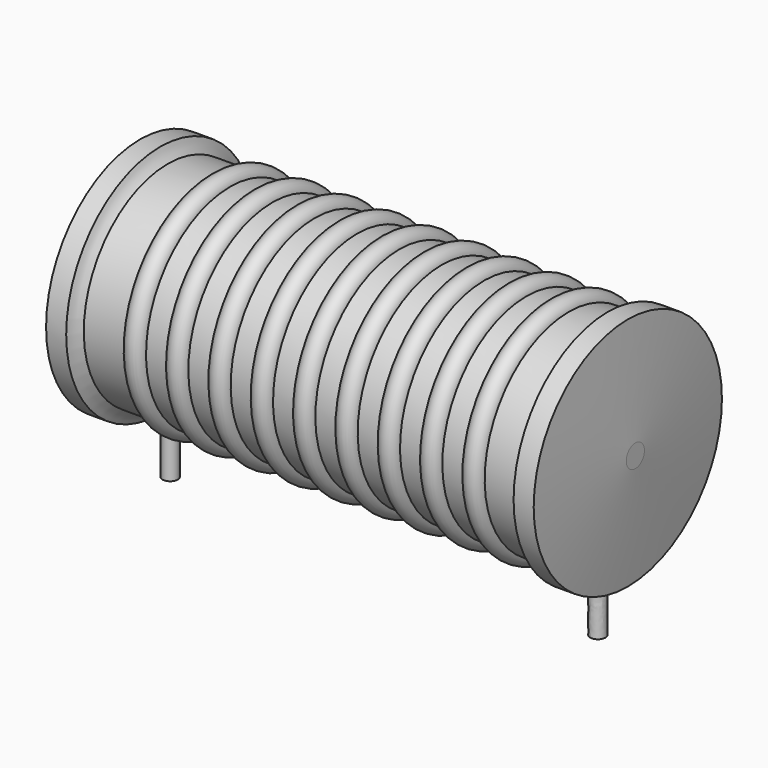
from build123d import *

# Parameters (mm, degrees)
SKETCH_R = 0.45


with BuildPart() as sweep_body:
    # Sweep: sweep along a path in Sketch001
    with BuildLine(Plane.XZ) as sweep_path:
        Line((0, -3), (0, 6.185))
        ThreePointArc((0, 6.185), (0.263601, 6.821393), (0.899993, 7.085))
        Line((0.899993, 7.085), (24.5, 7.085))
        ThreePointArc((24.5, 7.085), (25.136396, 6.821396), (25.4, 6.185))
        Line((25.4, 6.185), (25.4, -3))
    # Sketch → Sweep (sweep)
    with BuildSketch(Plane.XY.offset(-2)):
        Circle(SKETCH_R)
    sweep(path=sweep_path.line)


with BuildPart() as revolution:
    # Sketch002 → Revolution (revolve)
    with BuildSketch(Plane.XZ):
        with BuildLine():
            Line((-1.77725, 14.07), (-0.58325, 14.07))
            ThreePointArc((-0.58325, 14.07), (-0.399464, 13.672822), (-0.1355, 13.32375))
            Line((-0.1355, 13.32375), (25.5355, 13.32375))
            ThreePointArc((25.5355, 13.32375), (25.799464, 13.672822), (25.98325, 14.07))
            Line((25.98325, 14.07), (27.17725, 14.07))
            ThreePointArc((27.625, 7.76), (27.421663, 10.916457), (27.17725, 14.07))
            Line((27.625, 7.085), (27.625, 7.76))
            Line((-2.225, 7.085), (27.625, 7.085))
            Line((-2.225, 7.085), (-2.225, 7.76))
            ThreePointArc((-1.77725, 14.07), (-2.021663, 10.916457), (-2.225, 7.76))
        make_face()
    revolve(axis=Axis((-2.225, 0, 7.085), (1, 0, 0)))


with BuildPart() as obj1:
    # Sketch003 → Revolution001 (revolve)
    with BuildSketch(Plane.XZ):
        with BuildLine():
            ThreePointArc((3.572184, 13.20435), (2.943763, 13.832771), (2.315342, 13.20435))
            Line((1.0585, 13.20435), (2.315342, 13.20435))
            Line((1.0585, 13.20435), (1.0585, 11.80735))
            Line((1.0585, 11.80735), (24.9385, 11.80735))
            Line((24.9385, 11.80735), (24.9385, 13.20435))
            Line((23.681658, 13.20435), (24.9385, 13.20435))
            ThreePointArc((23.681658, 13.20435), (23.053237, 13.832771), (22.424816, 13.20435))
            Line((21.167974, 13.20435), (22.424816, 13.20435))
            ThreePointArc((21.167974, 13.20435), (20.539553, 13.832771), (19.911132, 13.20435))
            Line((18.654289, 13.20435), (19.911132, 13.20435))
            ThreePointArc((18.654289, 13.20435), (18.025868, 13.832771), (17.397447, 13.20435))
            Line((16.140605, 13.20435), (17.397447, 13.20435))
            ThreePointArc((16.140605, 13.20435), (15.512184, 13.832771), (14.883763, 13.20435))
            Line((13.626921, 13.20435), (14.883763, 13.20435))
            ThreePointArc((13.626921, 13.20435), (12.9985, 13.832771), (12.370079, 13.20435))
            Line((11.113237, 13.20435), (12.370079, 13.20435))
            ThreePointArc((11.113237, 13.20435), (10.484816, 13.832771), (9.856395, 13.20435))
            Line((8.599553, 13.20435), (9.856395, 13.20435))
            ThreePointArc((8.599553, 13.20435), (7.971132, 13.832771), (7.342711, 13.20435))
            Line((6.085868, 13.20435), (7.342711, 13.20435))
            ThreePointArc((6.085868, 13.20435), (5.457447, 13.832771), (4.829026, 13.20435))
            Line((3.572184, 13.20435), (4.829026, 13.20435))
        make_face()
    revolve(axis=Axis((-1.47875, 0, 7.085), (1, 0, 0)))

    # obj1: union Sweep body, Revolution
    add(sweep_body.part)
    add(revolution.part)


solid = obj1.part
